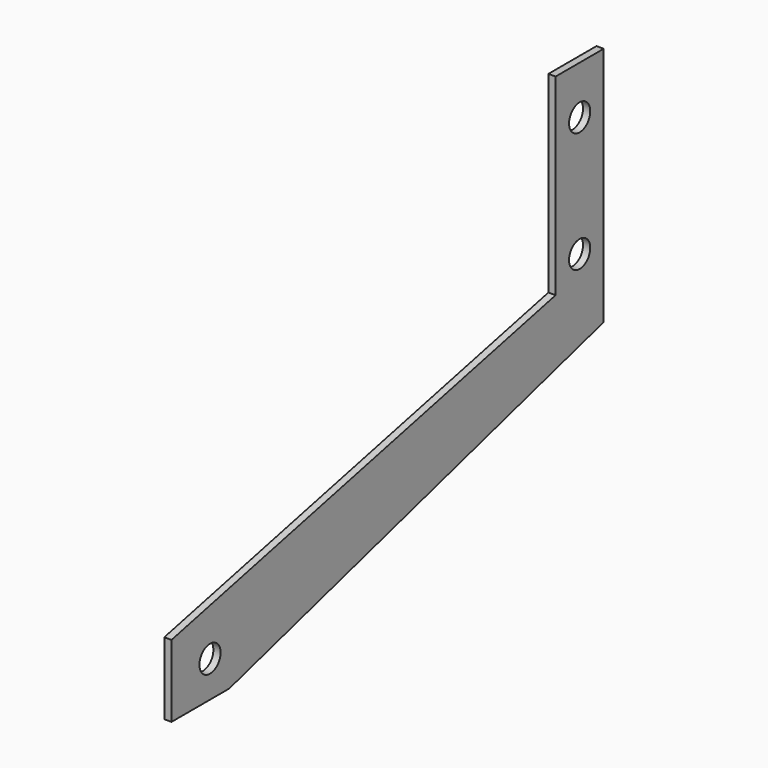
from build123d import *

# Parameters (mm, degrees)
F0_R     = 5.5
F1_DEPTH = 1.5


with BuildPart() as f1:
    # F0 (on Right) → F1 (new body, symmetric)
    with BuildSketch(Plane.YZ):
        Polygon((-194.5, -55), (0, 0), (0, 100), (-25, 100), (-25, 20), (-224.5, -25), (-224.5, -55), align=None)
        with Locations((-204.5, -40)):
            Circle(F0_R, mode=Mode.SUBTRACT)
        with Locations((-12.5, 30)):
            Circle(F0_R, mode=Mode.SUBTRACT)
        with Locations((-12.5, 80)):
            Circle(F0_R, mode=Mode.SUBTRACT)
    extrude(amount=F1_DEPTH, both=True)


solid = f1.part
